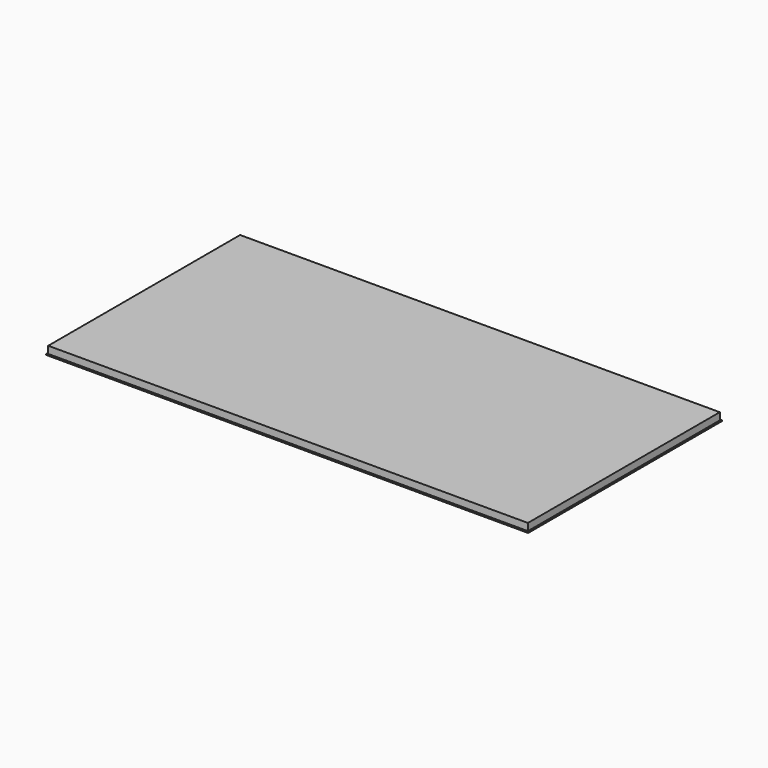
from build123d import *

# Parameters (mm, degrees)
F0_W     = 600
F0_H     = 300
F1_DEPTH = 10
F0_W_2   = 603
F0_H_2   = 303
F2_DEPTH = 1


with BuildPart() as f1:
    # F0 (on Top) → F1 (new body)
    with BuildSketch(Plane.XY):
        with Locations((-1264.429923, 2025.085235)):
            Rectangle(F0_W, F0_H)
    extrude(amount=F1_DEPTH)

    # F0 (on Top) → F2 (join)
    with BuildSketch(Plane.XY):
        with Locations((-1264.429923, 2025.085235)):
            Rectangle(F0_W_2, F0_H_2)
        with Locations((-1264.429923, 2025.085235)):
            Rectangle(F0_W, F0_H, mode=Mode.SUBTRACT)
    extrude(amount=F2_DEPTH)


solid = f1.part
